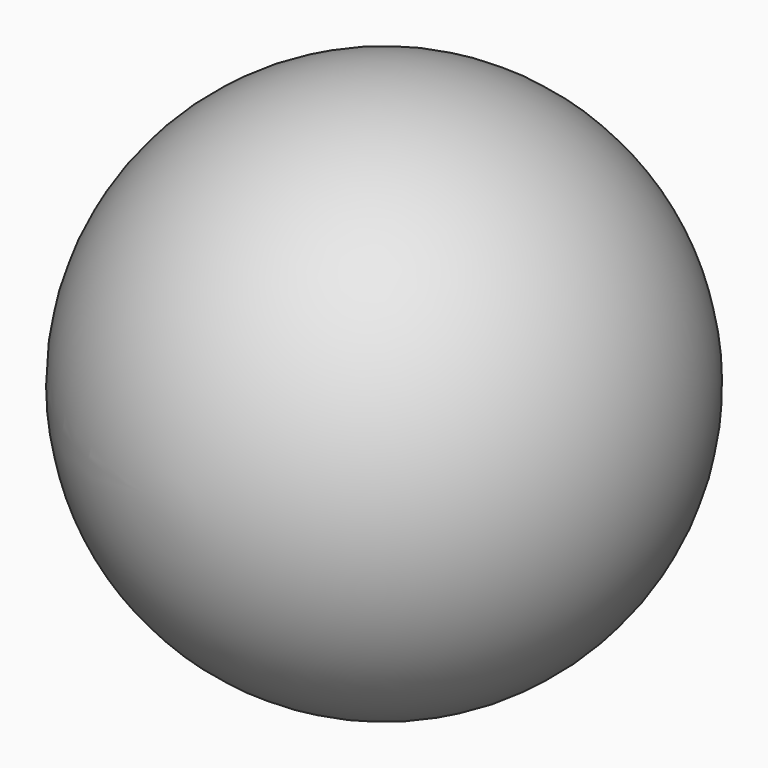
from build123d import *

# Parameters (mm, degrees)
F0_W     = 55
F0_H     = 26
F1_DEPTH = 8.5


with BuildPart() as f1:
    # F0 (on Top) → F1 (new body, symmetric)
    with BuildSketch(Plane.XY):
        Rectangle(F0_W, F0_H)
    extrude(amount=F1_DEPTH, both=True)


with BuildPart() as f3:
    # F2 (on Top) → F3 (revolve)
    with BuildSketch(Plane.XY):
        with BuildLine():
            Line((0, -35), (0, 35))
            ThreePointArc((0, 35), (-35, 0), (0, -35))
        make_face()
    revolve(axis=Axis((0, 0, 0), (0, -1, 0)))


solid = Compound([f1.part, f3.part])
